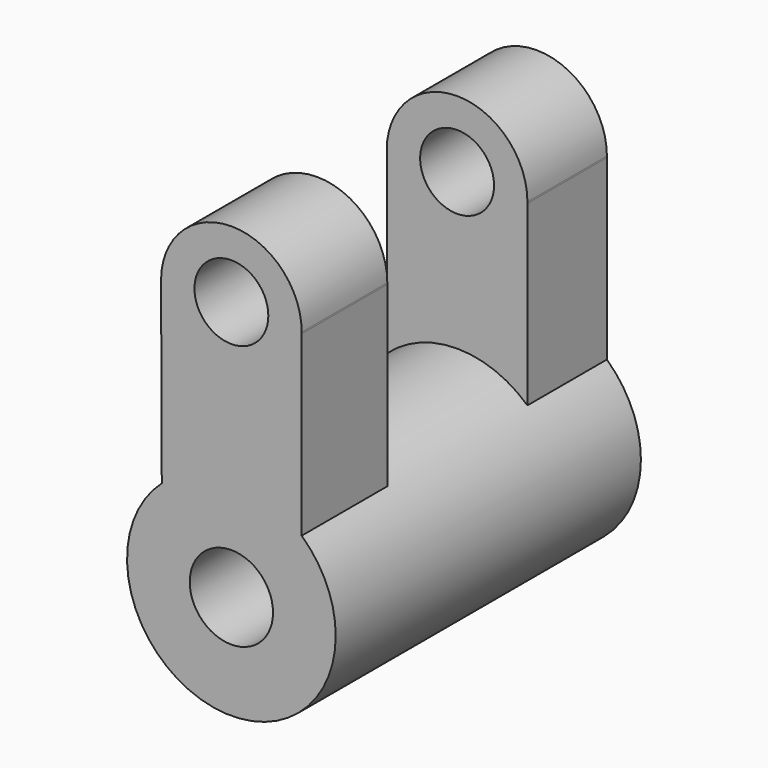
from build123d import *

# Parameters (mm, degrees)
F1_DEPTH      = 38.1
F1_DEPTH_BACK = 38.1
F2_W          = 34.983035177
F2_H          = 57.6349133626
F3_DEPTH      = 14.047474361
F3_DEPTH_BACK = 25.4
F4_R          = 20.8399152663
F5_DEPTH      = 25.4
F6_DEPTH      = 38.1
F6_DEPTH_BACK = 38.1
F7_R          = 8.3166578591
F7_R_2        = 7.3771783421
F8_DEPTH      = 38.101
F8_DEPTH_BACK = 38.101


with BuildPart() as f1:
    # F0 (on Front) → F1 (new body, two sides)
    with BuildSketch(Plane.XZ) as f1_sk:
        with BuildLine():
            ThreePointArc((14.0431994365, 50.8973942286), (14.045655606, 51.0490359422), (14.046474361, 51.2006953359))
            ThreePointArc((14.046474361, 51.2006953359), (-0.0285058427, 65.247140772), (-14.0463586618, 51.1436837678))
            Line((-14.0463586618, 51.1436837678), (14.0431994365, 50.8973942286))
        make_face()
        with BuildLine():
            Line((14.0431994365, 50.8973942286), (-14.0463586618, 51.1436837678))
            ThreePointArc((-14.0463586618, 51.1436837678), (-0.1231549002, 37.1547608762), (14.0431994365, 50.8973942286))
        make_face()
        with BuildLine():
            ThreePointArc((14.0431994365, 50.8973942286), (-0.1231549002, 37.1547608762), (-14.0463586618, 51.1436837678))
            Line((-14.0463586618, 51.1436837678), (-13.7860988001, -12.9784494638))
            Line((-13.7860988001, -12.9784494638), (14.0431994365, -12.9784494638))
            Line((14.0431994365, -12.9784494638), (14.0431994365, 50.8973942286))
        make_face()
    extrude(amount=F1_DEPTH)
    extrude(f1_sk.sketch, amount=-F1_DEPTH_BACK)

    # F2 (on Right) → F3 (cut, two sides)
    with BuildSketch(Plane.YZ) as f3_sk:
        with Locations((0.7638838142, 41.7796033435)):
            Rectangle(F2_W, F2_H)
    extrude(amount=-F3_DEPTH, mode=Mode.SUBTRACT)
    extrude(f3_sk.sketch, amount=F3_DEPTH_BACK, mode=Mode.SUBTRACT)

    # F4 (on Front) → F5 (join)
    with BuildSketch(Plane.XZ):
        Circle(F4_R)
    extrude(amount=F5_DEPTH)

    # F4 (on Front) → F6 (join, two sides)
    with BuildSketch(Plane.XZ) as f6_sk:
        Circle(F4_R)
    extrude(amount=F6_DEPTH)
    extrude(f6_sk.sketch, amount=-F6_DEPTH_BACK)

    # F7 (on Front) → F8 (cut, two sides)
    with BuildSketch(Plane.XZ) as f8_sk:
        Circle(F7_R)
        with Locations((0, 51.9042946398)):
            Circle(F7_R_2)
    extrude(amount=-F8_DEPTH, mode=Mode.SUBTRACT)
    extrude(f8_sk.sketch, amount=F8_DEPTH_BACK, mode=Mode.SUBTRACT)


solid = f1.part
